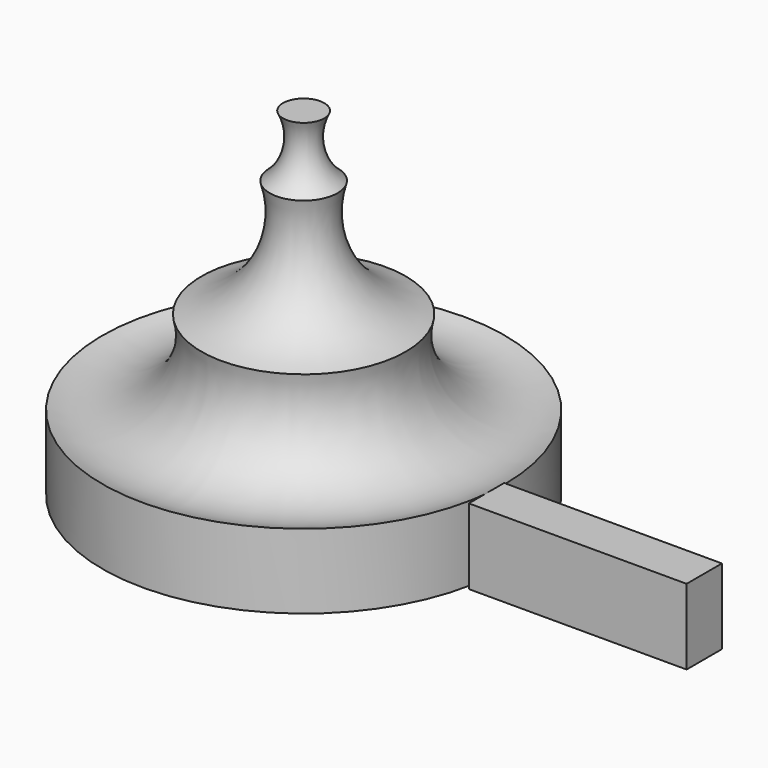
from build123d import *

# Parameters (mm, degrees)
F2_W     = 39.722167
F2_H     = 13.764486
F3_DEPTH = 8.05298


with BuildPart() as f1:
    # F0 (on Front) → F1 (revolve)
    with BuildSketch(Plane.XZ):
        with BuildLine():
            Line((0, 61.657354), (0, 0))
            Line((0, 0), (36.705293, 0))
            Line((36.705293, 0), (36.705293, 13.621594))
            ThreePointArc((36.705293, 13.621594), (22.791794, 15.588426), (18.632432, 29.010556))
            ThreePointArc((18.632432, 29.010556), (7.705818, 36.983119), (6.179184, 50.422688))
            ThreePointArc((6.179184, 50.422688), (2.962847, 55.608416), (3.767168, 61.657354))
            Line((3.767168, 61.657354), (0, 61.657354))
        make_face()
    revolve(axis=Axis((0, 0, 30.828677), (0, 0, 1)))

    # F2 (on Front) → F3 (join)
    with BuildSketch(Plane.XZ):
        with Locations((56.440677, 6.882243)):
            Rectangle(F2_W, F2_H)
    extrude(amount=F3_DEPTH)


solid = f1.part
